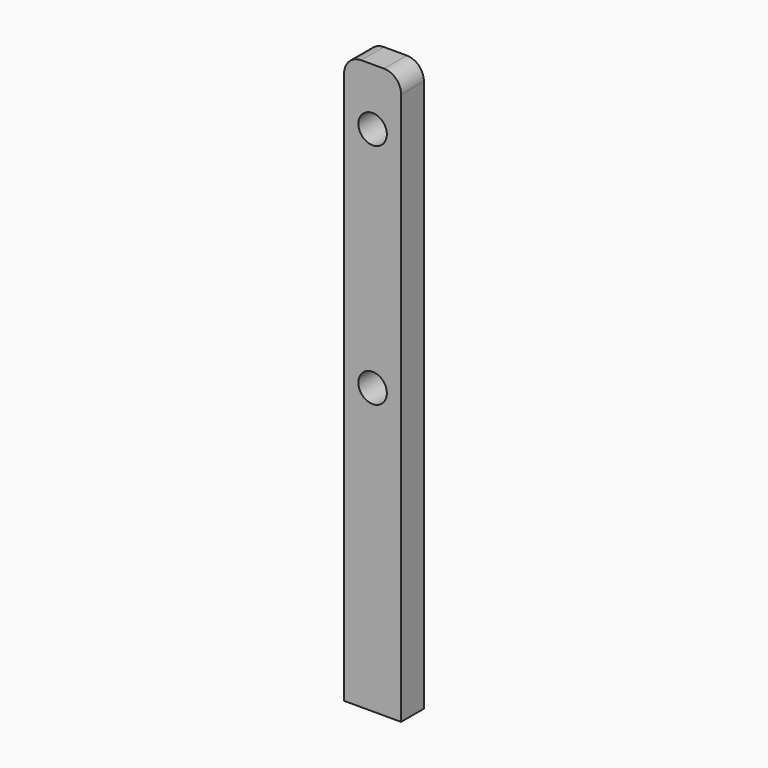
from build123d import *

# Parameters (mm, degrees)
F0_R     = 2.5
F1_DEPTH = 5


with BuildPart() as f1:
    # F0 (on Front) → F1 (new body)
    with BuildSketch(Plane.XZ):
        with BuildLine():
            Line((-10, 0), (0, 0))
            Line((0, 0), (0, 97))
            ThreePointArc((0, 97), (-0.87868, 99.12132), (-3, 100))
            Line((-3, 100), (-7, 100))
            ThreePointArc((-7, 100), (-9.12132, 99.12132), (-10, 97))
            Line((-10, 97), (-10, 0))
        make_face()
        with Locations((-5, 50)):
            Circle(F0_R, mode=Mode.SUBTRACT)
        with Locations((-5, 90)):
            Circle(F0_R, mode=Mode.SUBTRACT)
    extrude(amount=F1_DEPTH)


solid = f1.part
